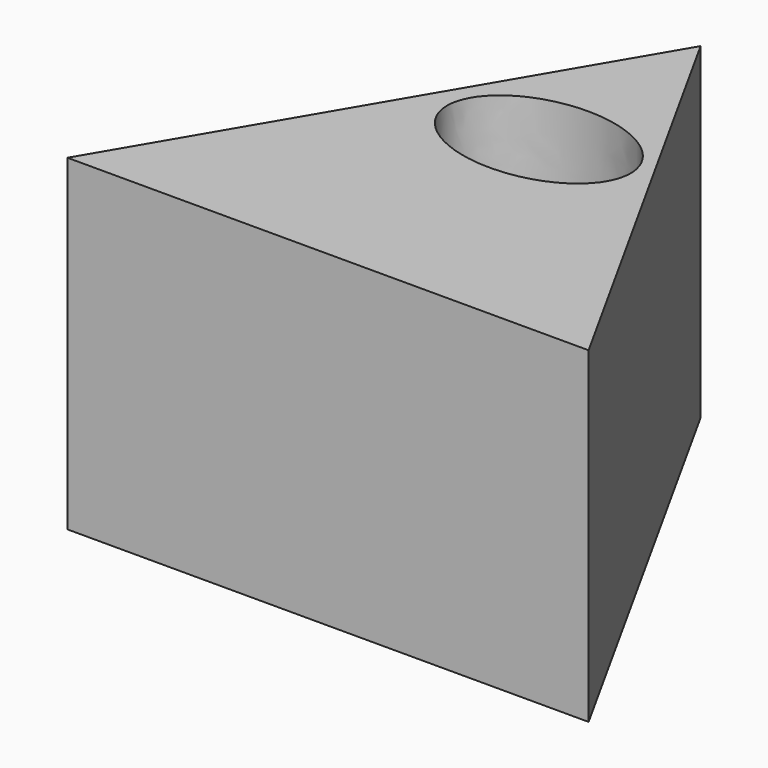
from build123d import *

# Parameters (mm, degrees)
F1_DEPTH = 30
F2_DEPTH = 3
F4_DEPTH = 25


with BuildPart() as f1:
    # F0 (on Top) → F1 (new body)
    with BuildSketch(Plane.XY):
        Polygon((0, 31.230669), (-24.587955, -10.608513), (23.199925, -10.608513), align=None)
    extrude(amount=-F1_DEPTH)

    # F1_face (on face) → F2 (join)
    with BuildSketch(Plane(origin=(-0.462677, 3.337881, 0), x_dir=(1, 0, 0), z_dir=(0, 0, 1))):
        Polygon((23.662602, -13.946394), (0.462677, 27.892788), (-24.125279, -13.946394), align=None)
    extrude(amount=-F2_DEPTH)

    # F3 (on face) → F4 (cut)
    with BuildSketch(Plane.XY):
        with BuildLine():
            add(Edge.make_bspline(
                [(-8.411, 12.690045), (-8.411, 2.961601), (4.2055, 7.825823), (16.822, 12.690045), (4.2055, 17.554267), (-8.411, 22.418489), (-8.411, 12.690045)],
                knots=[0, 0, 0, 2.094395, 2.094395, 4.18879, 4.18879, 6.283185, 6.283185, 6.283185], degree=2, weights=[1, 0.5, 1, 0.5, 1, 0.5, 1]))
        make_face()
    extrude(amount=-F4_DEPTH, mode=Mode.SUBTRACT)


solid = f1.part
